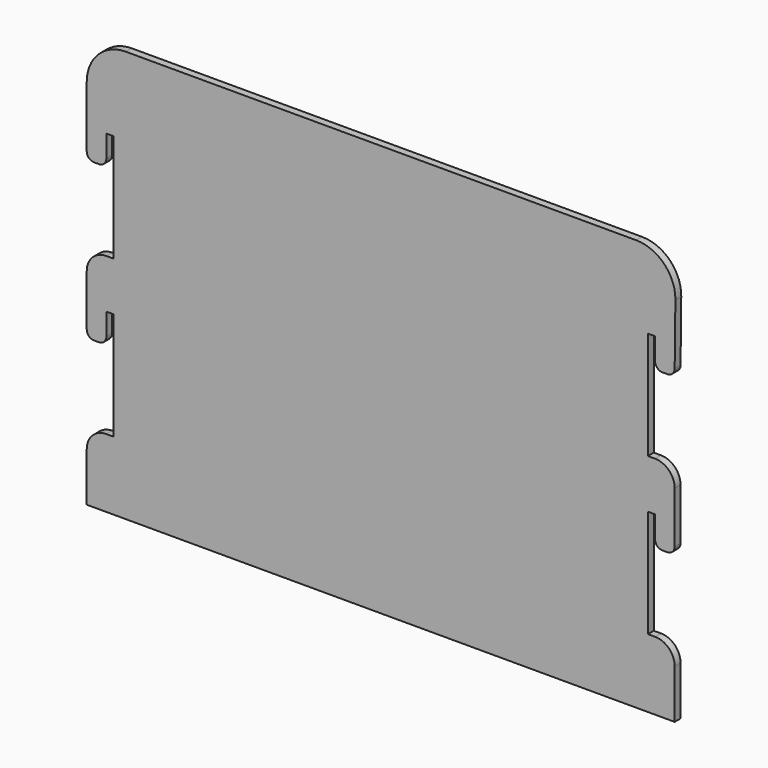
from build123d import *

# Parameters (mm, degrees)
F1_DEPTH = 19.05
F2_W     = 19.05
F2_H     = 279.4
F3_DEPTH = 19.051


with BuildPart() as f1:
    # F0 (on Front) → F1 (new body)
    with BuildSketch(Plane.XZ):
        with BuildLine():
            Line((-743.168125, 218.486937), (-730.468125, 218.486937))
            ThreePointArc((-730.468125, 218.486937), (-716.99774, 224.066552), (-711.418125, 237.536937))
            Line((-711.418125, 237.536937), (-711.418125, 15.286937))
            ThreePointArc((-711.418125, 15.286937), (-747.339149, 0.407961), (-762.218125, -35.513063))
            Line((-762.218125, -35.513063), (-762.218125, -168.863063))
            ThreePointArc((-762.218125, -168.863063), (-756.638509, -182.333448), (-743.168125, -187.913063))
            Line((-743.168125, -187.913063), (-730.468125, -187.913063))
            ThreePointArc((-730.468125, -187.913063), (-716.99774, -182.333448), (-711.418125, -168.863063))
            Line((-711.418125, -168.863063), (-711.418125, -391.113063))
            ThreePointArc((-711.418125, -391.113063), (-747.339149, -405.992039), (-762.218125, -441.913063))
            Line((-762.218125, -441.913063), (-762.218125, -568.913063))
            Line((-762.218125, -568.913063), (-711.418125, -568.913063))
            Line((-711.418125, -568.913063), (-692.368125, -568.913063))
            Line((-692.368125, -568.913063), (691.931875, -568.913063))
            Line((691.931875, -568.913063), (710.981875, -568.913063))
            Line((710.981875, -568.913063), (761.781875, -568.913063))
            Line((761.781875, -568.913063), (761.781875, -441.913063))
            ThreePointArc((761.781875, -441.913063), (746.9029, -405.992039), (710.981875, -391.113063))
            Line((710.981875, -391.113063), (710.981875, -168.863063))
            ThreePointArc((710.981875, -168.863063), (716.561491, -182.333448), (730.031875, -187.913063))
            Line((730.031875, -187.913063), (742.731875, -187.913063))
            ThreePointArc((742.731875, -187.913063), (756.20226, -182.333448), (761.781875, -168.863063))
            Line((761.781875, -168.863063), (761.781875, -35.513063))
            ThreePointArc((761.781875, -35.513063), (746.9029, 0.407961), (710.981875, 15.286937))
            Line((710.981875, 15.286937), (710.981875, 237.536937))
            ThreePointArc((710.981875, 237.536937), (716.561491, 224.066552), (730.031875, 218.486937))
            Line((730.031875, 218.486937), (742.731875, 218.486937))
            ThreePointArc((742.731875, 218.486937), (756.20226, 224.066552), (761.781875, 237.536937))
            Line((761.781875, 237.536937), (763.606541, 395.110511))
            ThreePointArc((763.606541, 395.110511), (734.270133, 467.711845), (662.013352, 497.886937))
            Line((662.013352, 497.886937), (-660.618125, 497.886937))
            ThreePointArc((-660.618125, 497.886937), (-732.460174, 468.128986), (-762.218125, 396.286937))
            Line((-762.218125, 396.286937), (-762.218125, 237.536937))
            ThreePointArc((-762.218125, 237.536937), (-756.638509, 224.066552), (-743.168125, 218.486937))
        make_face()
    extrude(amount=F1_DEPTH)

    # F2 (on face) → F3 (cut, through all)
    with BuildSketch(Plane.XZ.offset(19.05)):
        with Locations((-701.893125, 154.986937)):
            Rectangle(F2_W, F2_H)
        with Locations((-701.893125, -251.413063)):
            Rectangle(F2_W, F2_H)
        with Locations((701.893125, 154.986937)):
            Rectangle(F2_W, F2_H)
        with Locations((701.893125, -251.413063)):
            Rectangle(F2_W, F2_H)
    extrude(amount=-F3_DEPTH, mode=Mode.SUBTRACT)


solid = f1.part
